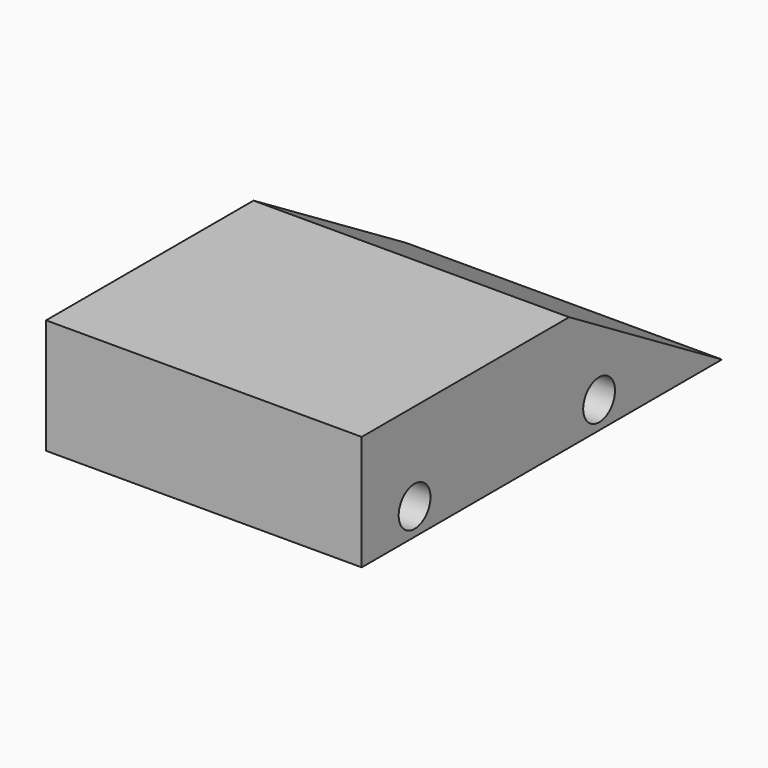
from build123d import *

# Parameters (mm, degrees)
F0_R     = 4
F1_DEPTH = 63.5


with BuildPart() as f1:
    # F0 (on Right) → F1 (new body)
    with BuildSketch(Plane.YZ):
        Polygon((0, 11.088334), (-52.162022, 11.088334), (-52.162022, -12.025376), (38.418731, -12.025376), align=None)
        with Locations((-38.872782, -6.604599)):
            Circle(F0_R, mode=Mode.SUBTRACT)
        with Locations((7.536133, -6.597519)):
            Circle(F0_R, mode=Mode.SUBTRACT)
    extrude(amount=F1_DEPTH)


solid = f1.part
